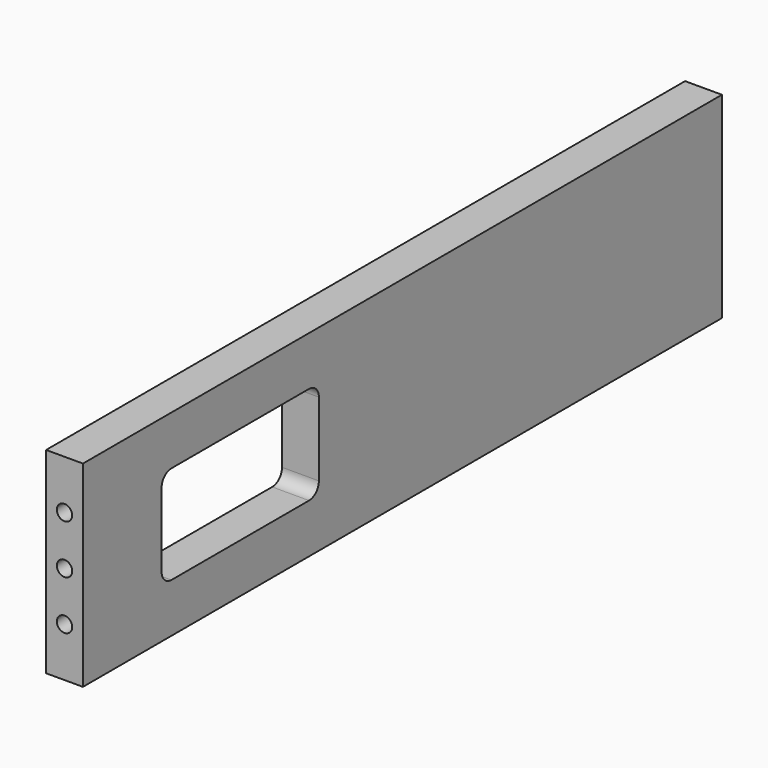
from build123d import *

# Parameters (mm, degrees)
F0_W     = 206.375
F0_H     = 50.8
F0_W_2   = 50.8
F0_H_2   = 25.4
F1_DEPTH = 9.525
F3_D     = 3.96875
F3_DEPTH = 19.05
F3_TIP   = 1.1923327909
F5_D     = 3.96875
F5_DEPTH = 19.05
F5_TIP   = 1.1923327909
F6_R     = 3.175


with BuildPart() as f1:
    # F0 (on Right) → F1 (new body)
    with BuildSketch(Plane.YZ):
        with Locations((103.1875, 25.4)):
            Rectangle(F0_W, F0_H)
        with Locations((50.8, 25.4)):
            Rectangle(F0_W_2, F0_H_2, mode=Mode.SUBTRACT)
    extrude(amount=F1_DEPTH)

    # F3
    with Locations(Plane(origin=(0, 206.375, 0), x_dir=(-1, 0, 0), z_dir=(0, 1, 0))):
        with Locations((-4.7625, 38.1), (-4.7625, 25.4), (-4.7625, 12.7)):
            Hole(F3_D / 2, depth=F3_DEPTH)
            with Locations((0, 0, -(F3_DEPTH + F3_TIP / 2))):  # 118° drill point
                Cone(0, F3_D / 2, F3_TIP, mode=Mode.SUBTRACT)

    # F5
    with Locations(Plane.XZ):
        with Locations((4.7625, 38.1), (4.7625, 25.4), (4.7625, 12.7)):
            Hole(F5_D / 2, depth=F5_DEPTH)
            with Locations((0, 0, -(F5_DEPTH + F5_TIP / 2))):  # 118° drill point
                Cone(0, F5_D / 2, F5_TIP, mode=Mode.SUBTRACT)

    # F6
    f6_edges = [f1.edges().sort_by_distance(p)[0] for p in [
        (4.7625, 76.2, 38.1),
        (4.7625, 25.4, 38.1),
        (4.7625, 25.4, 12.7),
        (4.7625, 76.2, 12.7),
    ]]
    fillet(f6_edges, radius=F6_R)


solid = f1.part
